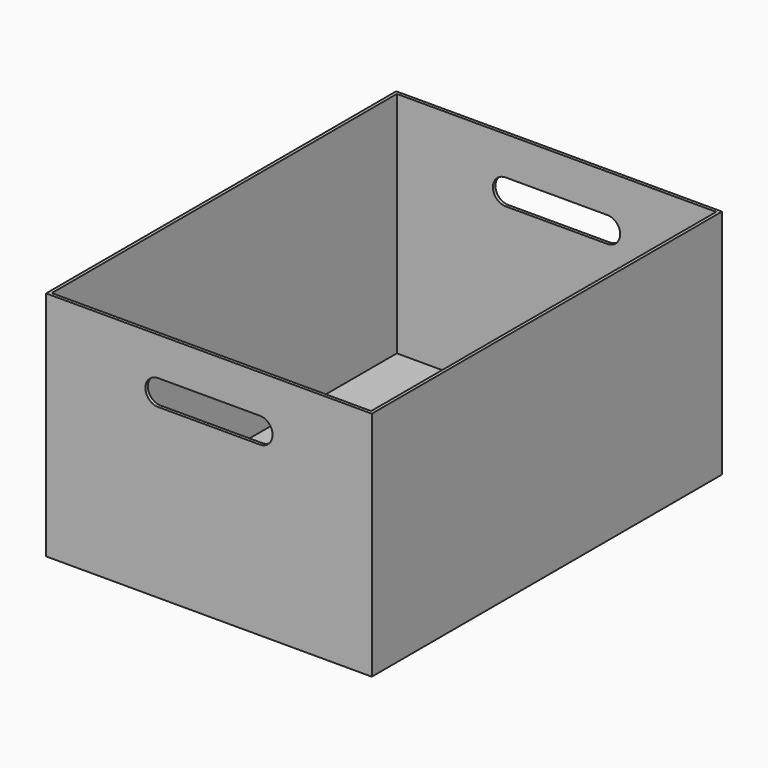
from build123d import *

# Parameters (mm, degrees)
F0_W     = 325.12
F0_H     = 436.88
F1_DEPTH = 231.14
F2_T     = -3.175
F4_DEPTH = 436.881


with BuildPart() as f1:
    # F0 (on Top) → F1 (new body)
    with BuildSketch(Plane.XY):
        Rectangle(F0_W, F0_H)
    extrude(amount=F1_DEPTH)

    # F2
    f2_openings = [f1.faces().sort_by_distance(p)[0] for p in [
        (0, 0, 231.14),
    ]]
    offset(amount=F2_T, openings=f2_openings)

    # F3 (on face) → F4 (cut, through all)
    with BuildSketch(Plane.XZ.offset(218.44)):
        with BuildLine():
            ThreePointArc((-50.8, 193.04), (-63.5, 180.34), (-50.8, 167.64))
            Line((-50.8, 167.64), (50.8, 167.64))
            ThreePointArc((50.8, 167.64), (63.5, 180.34), (50.8, 193.04))
            Line((50.8, 193.04), (-50.8, 193.04))
        make_face()
    extrude(amount=-F4_DEPTH, mode=Mode.SUBTRACT)


solid = f1.part
